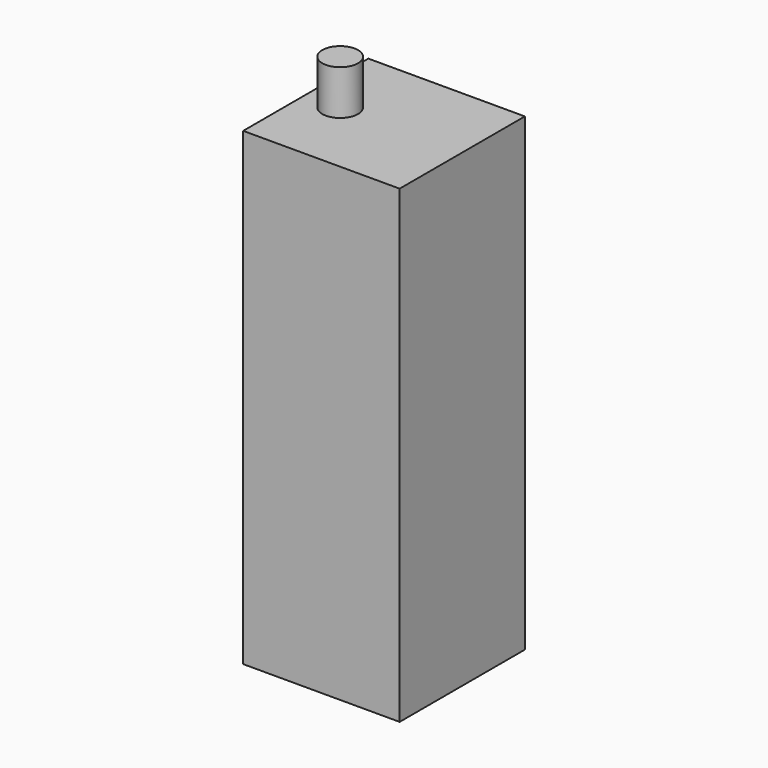
from build123d import *

# Parameters (mm, degrees)
F0_W     = 35
F0_H     = 105
F1_DEPTH = 17.5
F2_R     = 4
F3_DEPTH = 10


with BuildPart() as f1:
    # F0 (on Front) → F1 (new body, symmetric)
    with BuildSketch(Plane.XZ):
        with Locations((-8.1194676842, 52.5)):
            Rectangle(F0_W, F0_H)
    extrude(amount=F1_DEPTH, both=True)

    # F2 (on face) → F3 (join)
    with BuildSketch(Plane.XY.offset(105)):
        with Locations((-17.9164092988, 0)):
            Circle(F2_R)
    extrude(amount=F3_DEPTH)


solid = f1.part
